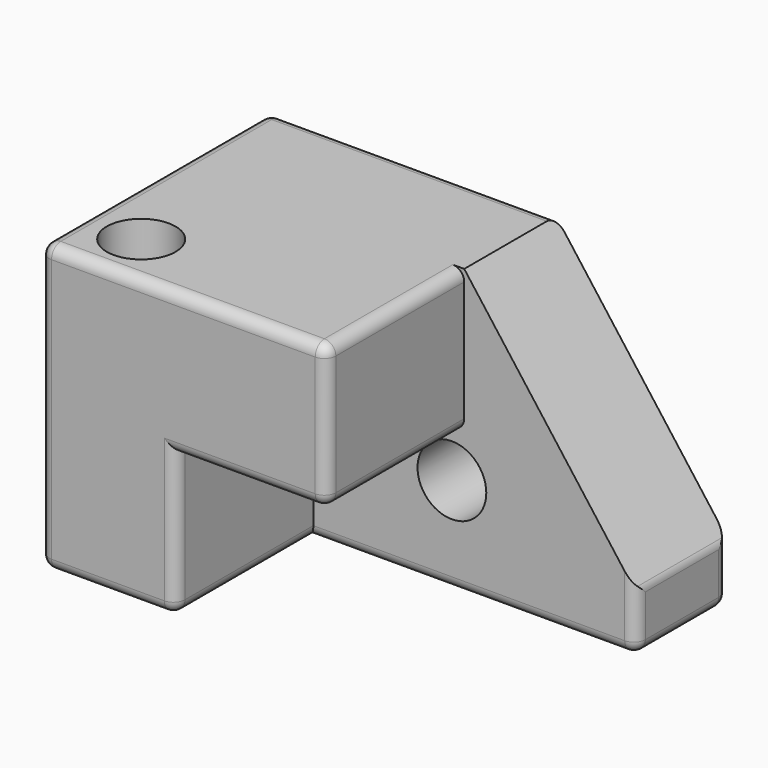
from build123d import *

# Parameters (mm, degrees)
F0_W          = 203.2
F0_H          = 127
F1_DEPTH      = 127
F3_DEPTH      = 76.2
F4_SIZE2      = 101.6
F4_SIZE       = 76.2
F5_R          = 5.08
F6_R          = 15.24
F7_DEPTH      = 25.4
F7_DEPTH_BACK = 76.2
F8_R          = 15.24
F9_DEPTH      = 254
F9_DEPTH_BACK = 254


with BuildPart() as f1:
    # F0 (on Front) → F1 (new body)
    with BuildSketch(Plane.XZ):
        Rectangle(F0_W, F0_H)
    extrude(amount=F1_DEPTH)

    # F2 (on face) → F3 (cut)
    with BuildSketch(Plane.XZ.offset(127)):
        Polygon((101.6, 63.5), (25.4, 63.5), (25.4, 0), (-41.4866656065, 0), (-41.4866656065, -63.5), (101.6, -63.5), align=None)
    extrude(amount=-F3_DEPTH, mode=Mode.SUBTRACT)

    # F4
    f4_edges = [f1.edges().sort_by_distance(p)[0] for p in [
        (101.6, -25.4, 63.5),
    ]]
    f4_side = f1.faces().sort_by_distance((-18.435484, -56.125806, 63.5))[0]
    chamfer(f4_edges, length=F4_SIZE, length2=F4_SIZE2, reference=f4_side)

    # F5
    f5_edges = [f1.edges().sort_by_distance(p)[0] for p in [
        (-38.1, -127, 63.5),
        (25.4, -88.9, 63.5),
        (25.4, -88.9, 0),
        (-8.043333, -127, 0),
        (-101.6, -63.5, 63.5),
        (-41.486666, -127, -31.75),
        (-41.486666, -88.9, -63.5),
        (-71.543333, -127, -63.5),
        (30.056667, -50.8, -63.5),
        (101.6, -25.4, -63.5),
        (101.6, -50.8, -50.8),
        (101.6, 0, -50.8),
        (101.6, -25.4, -38.1),
        (0, 0, -63.5),
        (-101.6, 0, 0),
        (-101.6, -63.5, -63.5),
        (25.4, -127, 31.75),
        (-101.6, -127, 0),
        (-38.1, 0, 63.5),
    ]]
    fillet(f5_edges, radius=F5_R)

    # F6 (on Front) → F7 (cut, two sides)
    with BuildSketch(Plane.XZ) as f7_sk:
        with Locations((19.9351496994, -20.7433328032)):
            Circle(F6_R)
    extrude(amount=-F7_DEPTH, mode=Mode.SUBTRACT)
    extrude(f7_sk.sketch, amount=F7_DEPTH_BACK, mode=Mode.SUBTRACT)

    # F8 (on face) → F9 (cut, two sides)
    with BuildSketch(Plane.XY.offset(63.5)) as f9_sk:
        with Locations((-75.8246555924, -103.2319366932)):
            Circle(F8_R)
    extrude(amount=-F9_DEPTH, mode=Mode.SUBTRACT)
    extrude(f9_sk.sketch, amount=F9_DEPTH_BACK, mode=Mode.SUBTRACT)


solid = f1.part
